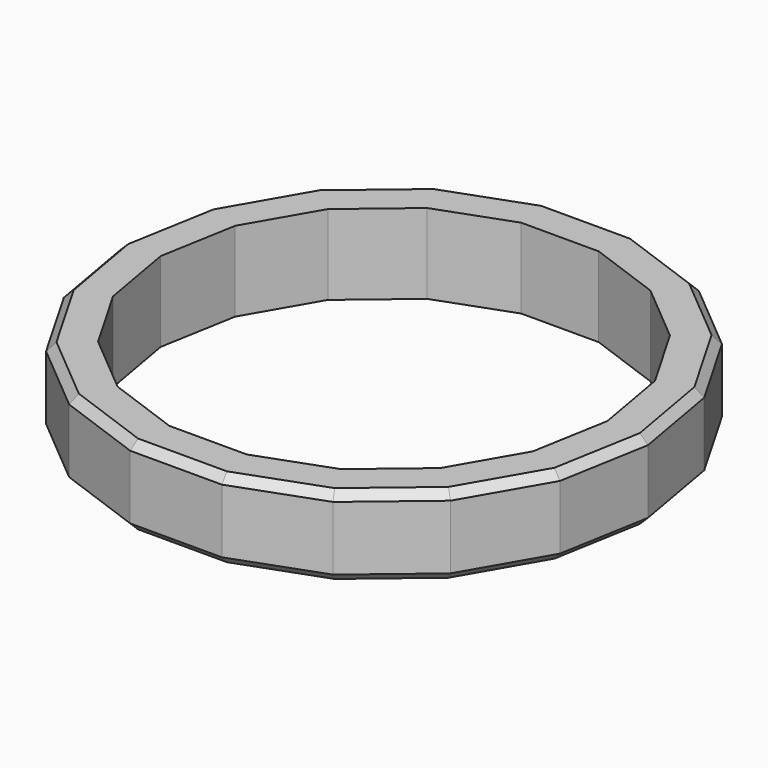
from build123d import *

# Parameters (mm, degrees)
F1_DEPTH = 10
F2_SIZE  = 1


with BuildPart() as f1:
    # F0 (on Top) → F1 (new body)
    with BuildSketch(Plane.XY):
        Polygon((5.730627, 32.5), (-5.730627, 32.5), (-16.500682, 28.58002), (-25.280512, 21.212868), (-31.011139, 11.287132), (-33.001365, 0), (-31.011139, -11.287132), (-25.280512, -21.212868), (-16.500682, -28.58002), (-5.730627, -32.5), (5.730627, -32.5), (16.500682, -28.58002), (25.280512, -21.212868), (31.011139, -11.287132), (33.001365, 0), (31.011139, 11.287132), (25.280512, 21.212868), (16.500682, 28.58002), align=None)
        Polygon((-13.962116, 24.183094), (-4.848992, 27.5), (4.848992, 27.5), (13.962116, 24.183094), (21.391203, 17.94935), (26.240195, 9.55065), (27.924232, 0), (26.240195, -9.55065), (21.391203, -17.94935), (13.962116, -24.183094), (4.848992, -27.5), (-4.848992, -27.5), (-13.962116, -24.183094), (-21.391203, -17.94935), (-26.240195, -9.55065), (-27.924232, 0), (-26.240195, 9.55065), (-21.391203, 17.94935), align=None, mode=Mode.SUBTRACT)
    extrude(amount=F1_DEPTH)

    # F2
    f2_edges = [f1.edges().sort_by_distance(p)[0] for p in [
        (-20.890597, 24.896444, 10),
        (-11.115655, 30.54001, 10),
        (0, 32.5, 10),
        (11.115655, 30.54001, 10),
        (20.890597, 24.896444, 10),
        (28.145826, 16.25, 10),
        (32.006252, 5.643566, 10),
        (32.006252, -5.643566, 10),
        (28.145826, -16.25, 10),
        (20.890597, -24.896444, 10),
        (11.115655, -30.54001, 10),
        (0, -32.5, 10),
        (-11.115655, -30.54001, 10),
        (-20.890597, -24.896444, 10),
        (-28.145826, -16.25, 10),
        (-32.006252, -5.643566, 10),
        (-32.006252, 5.643566, 10),
        (-28.145826, 16.25, 10),
        (-32.006252, 5.643566, 0),
        (-28.145826, 16.25, 0),
        (-20.890597, 24.896444, 0),
        (-11.115655, 30.54001, 0),
        (-32.006252, -5.643566, 0),
        (-28.145826, -16.25, 0),
        (-20.890597, -24.896444, 0),
        (-11.115655, -30.54001, 0),
        (0, -32.5, 0),
        (11.115655, -30.54001, 0),
        (20.890597, -24.896444, 0),
        (28.145826, -16.25, 0),
        (32.006252, -5.643566, 0),
        (32.006252, 5.643566, 0),
        (28.145826, 16.25, 0),
        (20.890597, 24.896444, 0),
        (11.115655, 30.54001, 0),
        (0, 32.5, 0),
    ]]
    chamfer(f2_edges, length=F2_SIZE)


solid = f1.part
